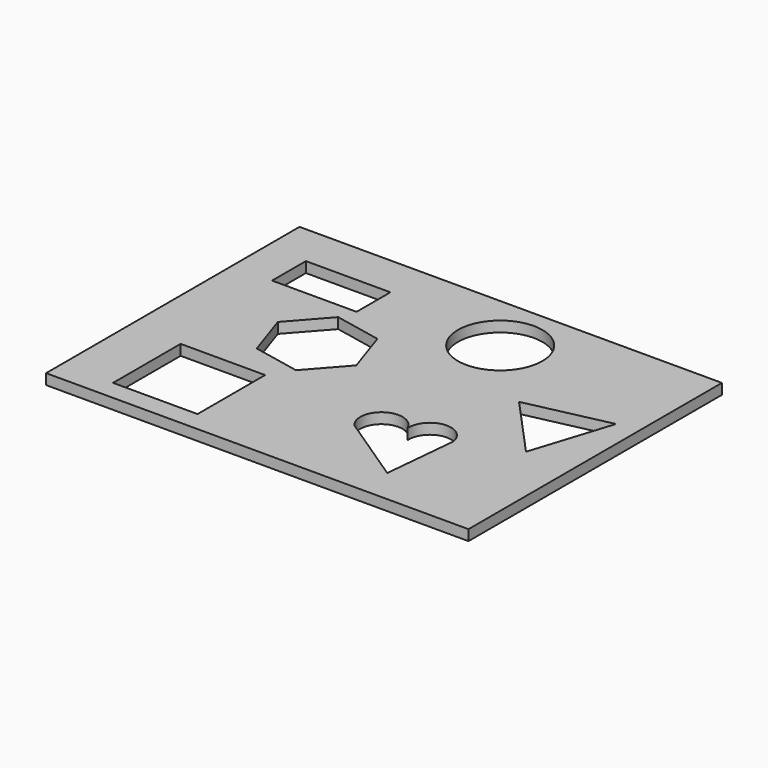
from build123d import *

# Parameters (mm, degrees)
F0_W     = 101.6
F0_H     = 76.2
F1_DEPTH = 2.54
F2_W     = 20.32
F2_H     = 20.32
F2_R     = 10.16
F2_H_2   = 10.16
F3_DEPTH = 25.4


with BuildPart() as f1:
    # F0 (on Top) → F1 (new body)
    with BuildSketch(Plane.XY):
        with Locations((53.288162454, 38.1)):
            Rectangle(F0_W, F0_H)
    extrude(amount=F1_DEPTH)

    # F2 (on face) → F3 (cut)
    with BuildSketch(Plane.XY.offset(2.54)):
        with Locations((24.9418702258, 14.9270934875)):
            Rectangle(F2_W, F2_H)
        Polygon((46.0128735526, 38.8576829665), (42.3679778823, 49.7650517752), (31.0994715703, 52.0621639349), (23.4758609287, 43.4519072859), (27.120756599, 32.5445384771), (38.389262911, 30.2474263175), align=None)
        with Locations((62.0653655748, 62.0609506502)):
            Circle(F2_R)
        with BuildLine():
            ThreePointArc((69.5037623118, 24.8280494189), (62.1026082383, 27.291008104), (61.0029814694, 19.5686983412))
            Line((61.0029814694, 19.5686983412), (77.9106780077, 8.2978422172))
            Line((77.9106780077, 8.2978422172), (79.5880475801, 26.0395985127))
            ThreePointArc((79.5880475801, 26.0395985127), (73.9551385225, 30.3510470246), (69.5037623118, 24.8280494189))
        make_face()
        with BuildLine():
            ThreePointArc((69.8327151733, 23.450238774), (69.619978521, 24.1276219486), (69.5037623118, 24.8280494189))
            ThreePointArc((69.5037623118, 24.8280494189), (69.7164989641, 24.1506662443), (69.8327151733, 23.450238774))
        make_face(mode=Mode.SUBTRACT)
        with Locations((22.2855004779, 60.9901738036)):
            Rectangle(F2_W, F2_H_2)
        Polygon((99.0087416034, 50.7119290068), (79.1586949337, 46.367041527), (92.8465012027, 31.3488405847), align=None)
        with BuildLine():
            ThreePointArc((69.8327151733, 23.450238774), (69.7164989641, 24.1506662443), (69.5037623118, 24.8280494189))
            ThreePointArc((69.5037623118, 24.8280494189), (69.619978521, 24.1276219486), (69.8327151733, 23.450238774))
        make_face()
    extrude(amount=-F3_DEPTH, mode=Mode.SUBTRACT)


solid = f1.part
